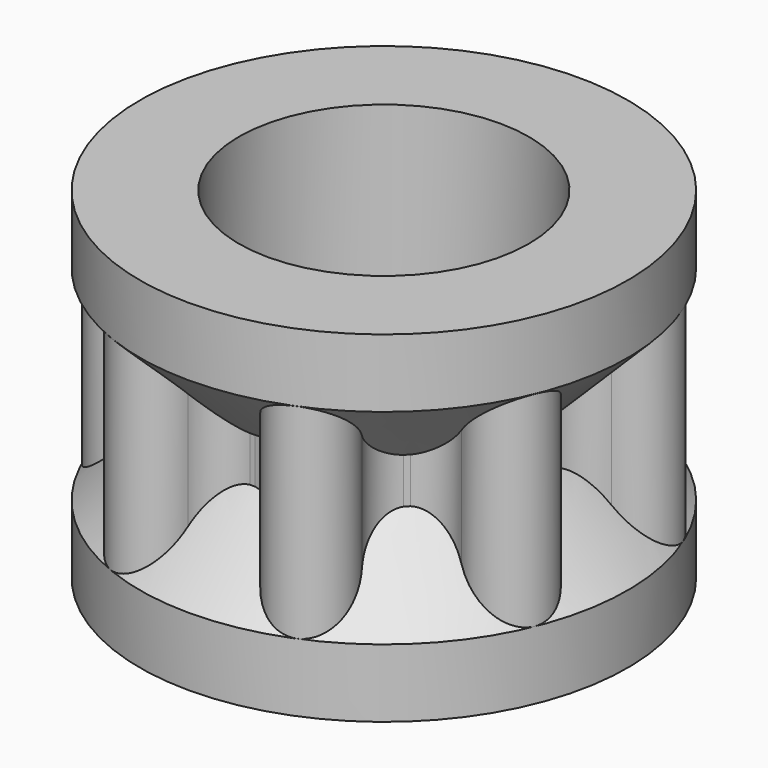
from build123d import *

# Parameters (mm, degrees)
BOX003_W          = 1.5
BOX003_H          = 3.9
BOX003_DEPTH      = 20
CYLINDER004_R     = 0.75
CYLINDER004_DEPTH = 10
BOX002_W          = 3.9
BOX002_H          = 1.5
BOX002_DEPTH      = 20
CYLINDER003_R     = 5.5
CYLINDER003_DEPTH = 4.5
SKETCH003_R       = 5.1
EXTRUDE004_DEPTH  = 6
CHAMFER001_SIZE   = 0.2


with BuildPart() as cube003:
    # Box003 → Box003 (new body)
    with BuildSketch(Plane(origin=(-0.75, -1.95, -2), x_dir=(1, 0, 0), z_dir=(0, 0, 1))):
        with Locations((0.75, 1.95)):
            Rectangle(BOX003_W, BOX003_H)
    extrude(amount=BOX003_DEPTH)


with BuildPart() as cylinder004:
    # Cylinder004 → Cylinder004 (new body)
    with BuildSketch(Plane.XY.offset(-3.5)):
        Circle(CYLINDER004_R)
    extrude(amount=CYLINDER004_DEPTH)


with BuildPart() as fusion003:
    # Box002 → Box002 (new body)
    with BuildSketch(Plane(origin=(-1.95, -0.75, -2), x_dir=(1, 0, 0), z_dir=(0, 0, 1))):
        with Locations((1.95, 0.75)):
            Rectangle(BOX002_W, BOX002_H)
    extrude(amount=BOX002_DEPTH)

    # Fusion003: union Cube003, Cylinder004
    add(cube003.part)
    add(cylinder004.part)


with BuildPart() as revolve_body:
    # Sketch008 → Revolve (revolve)
    with BuildSketch(Plane.YZ):
        Polygon((-8.58, 6), (-8.58, 3.6), (-5.78, 0.8), (-5.78, -0.8), (-8.58, -3.6), (-8.58, -6), (-5.5, -6), (-5.5, 6), align=None)
    revolve(axis=Axis((0, 0, 0), (0, 0, 1)))


with BuildPart() as cylinder003:
    # Cylinder003 → Cylinder003 (new body)
    with BuildSketch(Plane.XY.offset(-4.3)):
        Circle(CYLINDER003_R)
    extrude(amount=CYLINDER003_DEPTH)


with BuildPart() as drivegear_printable:
    # Sketch003 → Extrude004 (new body, symmetric)
    with BuildSketch(Plane.XY):
        with BuildLine():
            ThreePointArc((1.373099, -6.903037), (0, -5.776163), (-1.373099, -6.903037))
            ThreePointArc((-3.910251, -5.852105), (-3.28196, -7.92334), (-1.373099, -6.903037))
            ThreePointArc((-3.910251, -5.852105), (-4.084365, -4.084363), (-5.852107, -3.910253))
            ThreePointArc((-6.903031, -1.373098), (-7.923342, -3.281956), (-5.852107, -3.910253))
            ThreePointArc((-6.903031, -1.373098), (-5.776163, 0), (-6.903031, 1.373098))
            ThreePointArc((-5.852107, 3.910253), (-7.923342, 3.281956), (-6.903031, 1.373098))
            ThreePointArc((-5.852107, 3.910253), (-4.084363, 4.084365), (-3.910255, 5.85211))
            ThreePointArc((-1.373099, 6.903037), (-3.281957, 7.923341), (-3.910255, 5.85211))
            ThreePointArc((-1.373099, 6.903037), (0, 5.776163), (1.373099, 6.903037))
            ThreePointArc((3.910255, 5.85211), (3.281957, 7.923341), (1.373099, 6.903037))
            ThreePointArc((3.910255, 5.85211), (4.084362, 4.084366), (5.852105, 3.910251))
            ThreePointArc((6.903037, 1.373099), (7.92334, 3.28196), (5.852105, 3.910251))
            ThreePointArc((6.903037, 1.373099), (5.776163, 0), (6.903037, -1.373099))
            ThreePointArc((5.852112, -3.910256), (7.923342, -3.281956), (6.903037, -1.373099))
            ThreePointArc((5.852112, -3.910256), (4.084364, -4.084364), (3.910256, -5.852112))
            ThreePointArc((1.373099, -6.903037), (3.281956, -7.923342), (3.910256, -5.852112))
        make_face()
        Circle(SKETCH003_R, mode=Mode.SUBTRACT)
    extrude(amount=EXTRUDE004_DEPTH, both=True)

    # Fusion002: union Revolve body, Cylinder003
    add(revolve_body.part)
    add(cylinder003.part)

    # Cut001: cut Fusion003
    add(fusion003.part, mode=Mode.SUBTRACT)

    # Chamfer001
    chamfer001_edges = [drivegear_printable.edges().sort_by_distance(p)[0] for p in [
        (-1.35, -0.75, 0.2),
        (-0.75, -1.35, 0.2),
        (0, -1.95, 0.2),
        (0.75, -1.35, 0.2),
        (1.35, -0.75, 0.2),
        (1.95, 0, 0.2),
        (1.35, 0.75, 0.2),
        (0.75, 1.35, 0.2),
        (0, 1.95, 0.2),
        (-0.75, 1.35, 0.2),
        (-1.35, 0.75, 0.2),
        (-1.95, 0, 0.2),
    ]]
    chamfer(chamfer001_edges, length=CHAMFER001_SIZE)


with BuildPart() as drivegear_printable_1:
    # Clone006 placement: moved
    add(drivegear_printable.part.moved(Location((37, 21, 0))))


solid = drivegear_printable_1.part
